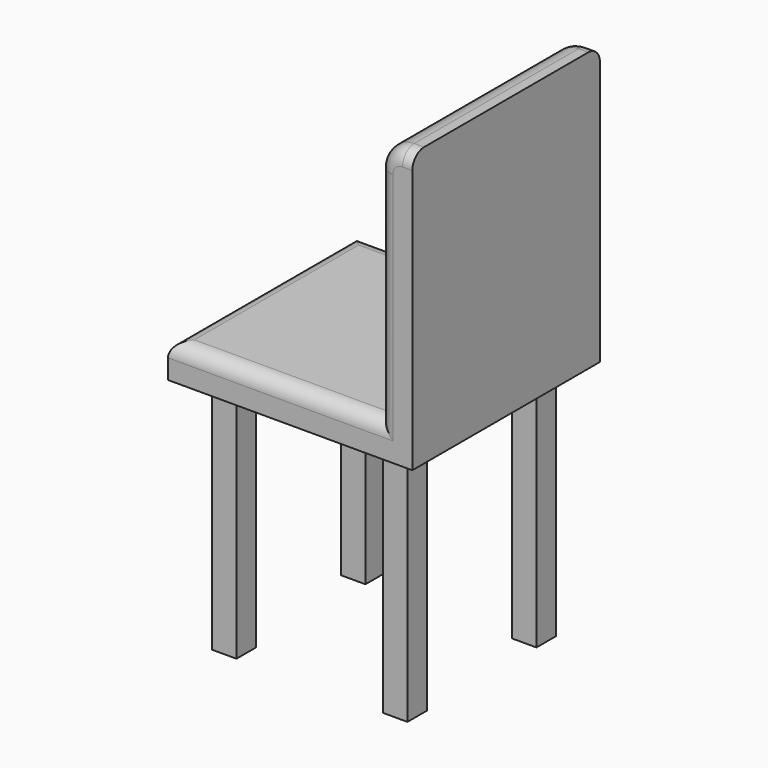
from build123d import *

# Parameters (mm, degrees)
SKETCH619_W             = 480
SKETCH619_H             = 500
PAD295_DEPTH            = 70
SKETCH623_W             = 480
SKETCH623_H             = 70
PAD298_DEPTH            = 500
SKETCH620_W             = 50
SKETCH620_H             = 50
PAD294_DEPTH            = 490
SKETCH622_W             = 50
SKETCH622_H             = 50
PAD293_DEPTH            = 490
SKETCH621_W             = 50
SKETCH621_H             = 50
PAD296_DEPTH            = 490
SKETCH624_W             = 50
SKETCH624_H             = 50
PAD297_DEPTH            = 490
FILLET207_R             = 50
FILLET208_R             = 30
FILLET209_R             = 30
BODY125_PLACEMENT_ANGLE = 90


with BuildPart() as part:
    # Sketch619 → Pad295 (new body)
    with BuildSketch(Plane.XY):
        with Locations((240, 250)):
            Rectangle(SKETCH619_W, SKETCH619_H)
    extrude(amount=PAD295_DEPTH)

    # Sketch623 (on Face6 of Pad295) → Pad298 (join)
    with BuildSketch(Plane.XY.offset(70)):
        with Locations((240, 465)):
            Rectangle(SKETCH623_W, SKETCH623_H)
    extrude(amount=PAD298_DEPTH)

    # Sketch620 (on Face4 of Pad298) → Pad294 (join)
    with BuildSketch(Plane(origin=(0, 0, 0), x_dir=(1, 0, 0), z_dir=(0, 0, -1))):
        with Locations((75, -75)):
            Rectangle(SKETCH620_W, SKETCH620_H)
    extrude(amount=PAD294_DEPTH)

    # Sketch622 (on Face4 of Pad294) → Pad293 (join)
    with BuildSketch(Plane(origin=(0, 0, 0), x_dir=(1, 0, 0), z_dir=(0, 0, -1))):
        with Locations((405, -75)):
            Rectangle(SKETCH622_W, SKETCH622_H)
    extrude(amount=PAD293_DEPTH)

    # Sketch621 (on Face4 of Pad293) → Pad296 (join)
    with BuildSketch(Plane(origin=(0, 0, 0), x_dir=(1, 0, 0), z_dir=(0, 0, -1))):
        with Locations((75, -425)):
            Rectangle(SKETCH621_W, SKETCH621_H)
    extrude(amount=PAD296_DEPTH)

    # Sketch624 (on Face4 of Pad296) → Pad297 (join)
    with BuildSketch(Plane(origin=(0, 0, 0), x_dir=(1, 0, 0), z_dir=(0, 0, -1))):
        with Locations((405, -425)):
            Rectangle(SKETCH624_W, SKETCH624_H)
    extrude(amount=PAD297_DEPTH)

    # Fillet207
    fillet207_edges = [part.edges().sort_by_distance(p)[0] for p in [
        (240, 430, 570),
    ]]
    fillet(fillet207_edges, radius=FILLET207_R)

    # Fillet208
    fillet208_edges = [part.edges().sort_by_distance(p)[0] for p in [
        (240, 0, 70),
        (480, 215, 70),
        (0, 215, 70),
    ]]
    fillet(fillet208_edges, radius=FILLET208_R)

    # Fillet209
    fillet209_edges = [part.edges().sort_by_distance(p)[0] for p in [
        (480, 430, 295),
        (480, 444.644661, 555.355339),
        (0, 430, 295),
        (0, 444.644661, 555.355339),
    ]]
    fillet(fillet209_edges, radius=FILLET209_R)


with BuildPart() as part_1:
    # Body125 placement: moved
    add(part.part.moved(Location((3270, 2526, 462))).rotate(Axis((3270, 2526, 462), (0, 0, -1)), BODY125_PLACEMENT_ANGLE))


solid = part_1.part
